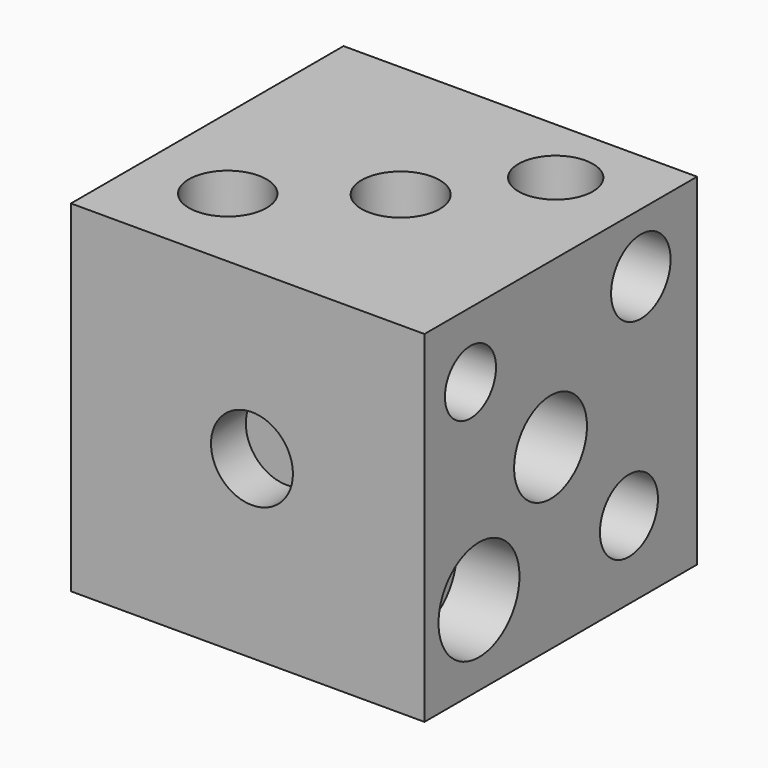
from build123d import *

# Parameters (mm, degrees)
F0_W      = 45.548788
F0_H      = 43.902439
F1_DEPTH  = 44
F3_R      = 5.278003
F4_DEPTH  = 6.1
F6_R      = 4.792021
F6_R_2    = 4.833087
F7_DEPTH  = 8.7
F9_R      = 5.007153
F9_R_2    = 5.037139
F9_R_3    = 4.799872
F10_DEPTH = 9.9
F11_R     = 5.299354
F11_R_2   = 5.083632
F11_R_3   = 4.607541
F11_R_4   = 5.974621
F12_DEPTH = 7.9
F14_R     = 4.115857
F14_R_2   = 4.79202
F14_R_3   = 5.865796
F14_R_4   = 6.522182
F14_R_5   = 4.672699
F15_DEPTH = 8.3
F17_R     = 3.928671
F17_R_2   = 4.73671
F17_R_3   = 3.851249
F17_R_4   = 3.81195
F17_R_5   = 4.969419
F17_R_6   = 4.688783
F18_DEPTH = 9


with BuildPart() as f1:
    # F0 (on Top) → F1 (new body)
    with BuildSketch(Plane.XY):
        with Locations((-8.368903, 7.542874)):
            Rectangle(F0_W, F0_H)
    extrude(amount=F1_DEPTH)

    # F3 (on offset) → F4 (cut)
    with BuildSketch(Plane.XZ.offset(14.9)):
        with Locations((-7.820123, 22.634339)):
            Circle(F3_R)
    extrude(amount=-F4_DEPTH, mode=Mode.SUBTRACT)

    # F6 (on offset) → F7 (cut)
    with BuildSketch(Plane.XZ.offset(-30.2)):
        with Locations((-15.777439, 30.042876)):
            Circle(F6_R)
        with Locations((0, 13.03068)):
            Circle(F6_R_2)
    extrude(amount=F7_DEPTH, mode=Mode.SUBTRACT)

    # F9 (on offset) → F10 (cut)
    with BuildSketch(Plane.XY.offset(45.6)):
        with Locations((-20.164827, -2.881098)):
            Circle(F9_R)
        with Locations((-6.445313, 7.82012)):
            Circle(F9_R_2)
        with Locations((3.432736, 20.442074)):
            Circle(F9_R_3)
    extrude(amount=-F10_DEPTH, mode=Mode.SUBTRACT)

    # F11 (on Top) → F12 (cut)
    with BuildSketch(Plane.XY):
        with Locations((-21.811167, 19.893292)):
            Circle(F11_R)
        with Locations((-22.085557, 0)):
            Circle(F11_R_2)
        with Locations((0, 20.442074)):
            Circle(F11_R_3)
        Circle(F11_R_4)
    extrude(amount=F12_DEPTH, mode=Mode.SUBTRACT)

    # F14 (on offset) → F15 (cut)
    with BuildSketch(Plane.YZ.offset(14.6)):
        with Locations((-6.996952, 35.530679)):
            Circle(F14_R)
        with Locations((20.442074, 36.353853)):
            Circle(F14_R_2)
        with Locations((5.89939, 22.90873)):
            Circle(F14_R_3)
        with Locations((-5.625001, 10.286777)):
            Circle(F14_R_4)
        with Locations((18.521342, 10.012387)):
            Circle(F14_R_5)
    extrude(amount=-F15_DEPTH, mode=Mode.SUBTRACT)

    # F17 (on offset) → F18 (cut)
    with BuildSketch(Plane.YZ.offset(-31.3)):
        with Locations((-7.545732, 7.54859)):
            Circle(F17_R)
        with Locations((-7.820123, 19.621762)):
            Circle(F17_R_2)
        with Locations((-7.271341, 31.146152)):
            Circle(F17_R_3)
        with Locations((20.990856, 7.82298)):
            Circle(F17_R_4)
        with Locations((20.990856, 19.34737)):
            Circle(F17_R_5)
        with Locations((18.521342, 31.969324)):
            Circle(F17_R_6)
    extrude(amount=F18_DEPTH, mode=Mode.SUBTRACT)


solid = f1.part
